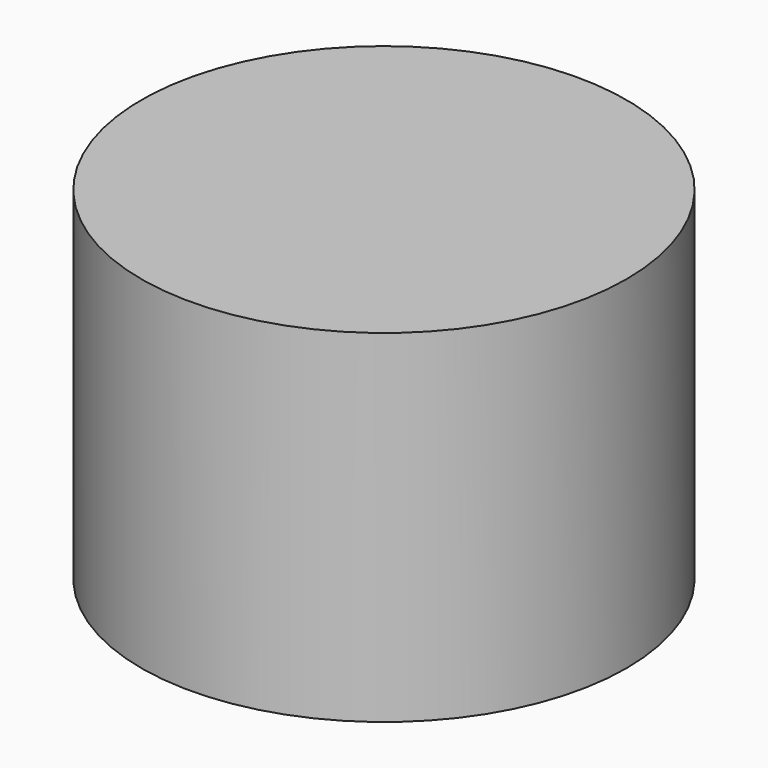
from build123d import *

# Parameters (mm, degrees)
F2_R     = 2.125
F2_R_2   = 1.25
F3_DEPTH = 3
F4_DEPTH = 2.5


with BuildPart() as f3:
    # F2 (on Top) → F3 (new body)
    with BuildSketch(Plane.XY):
        Circle(F2_R)
        Circle(F2_R_2, mode=Mode.SUBTRACT)
        Circle(F2_R_2)
    extrude(amount=F3_DEPTH)

    # F2 (on Top) → F4 (cut)
    with BuildSketch(Plane.XY):
        Circle(F2_R_2)
    extrude(amount=F4_DEPTH, mode=Mode.SUBTRACT)


solid = f3.part
